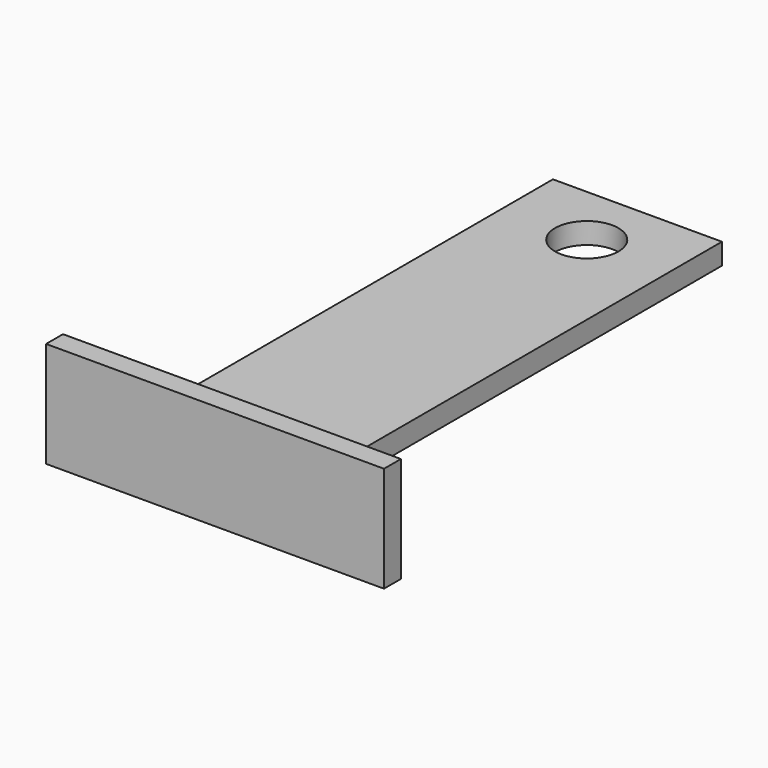
from build123d import *

# Parameters (mm, degrees)
F0_W          = 152.4
F0_H          = 6.35
F1_DEPTH      = 50.8
F3_DEPTH      = 76.2
F3_DEPTH_BACK = 25.4
F4_R          = 9.525
F5_DEPTH      = 25.155085


with BuildPart() as f1:
    # F0 (on Right) → F1 (new body)
    with BuildSketch(Plane.YZ):
        with Locations((12.980076, 9.279085)):
            Rectangle(F0_W, F0_H)
    extrude(amount=F1_DEPTH)

    # F2 (on Right) → F3 (join, two sides)
    with BuildSketch(Plane.YZ) as f3_sk:
        Polygon((-63.219924, -6.595915), (-63.219924, 12.454085), (-63.219924, 25.154085), (-69.569924, 25.154085), (-69.569924, -6.595915), align=None)
    extrude(amount=F3_DEPTH)
    extrude(f3_sk.sketch, amount=-F3_DEPTH_BACK)

    # F4 (on Top) → F5 (cut, through all)
    with BuildSketch(Plane.XY):
        with Locations((25.4, 70.130076)):
            Circle(F4_R)
    extrude(amount=F5_DEPTH, mode=Mode.SUBTRACT)


solid = f1.part
